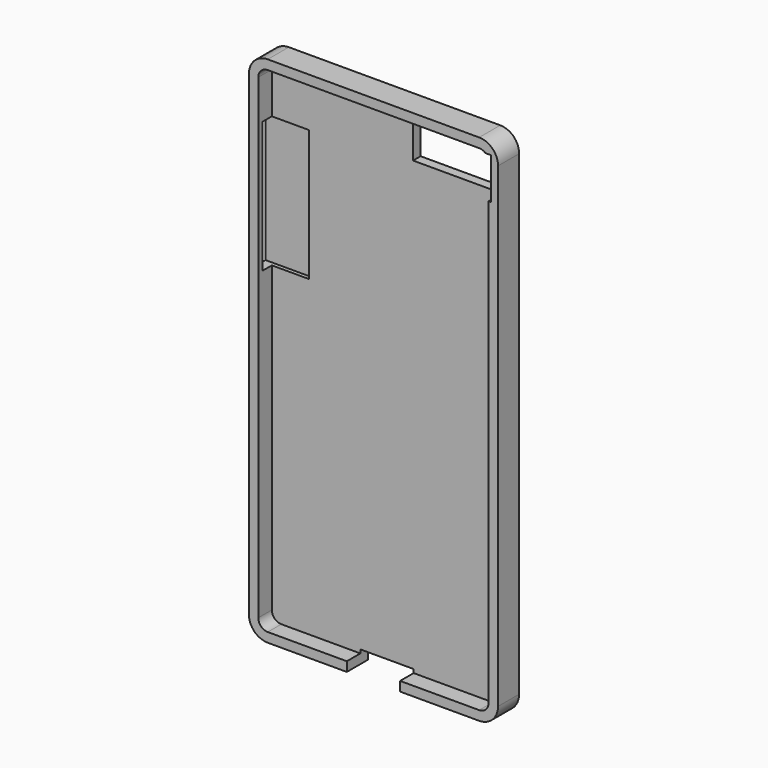
from build123d import *

# Parameters (mm, degrees)
F0_W     = 67.1
F0_H     = 138.3
F1_DEPTH = 3.55
F2_R     = 5.08
F3_T     = -2.54
F4_W     = 24.637904
F4_H     = 11.145718
F5_DEPTH = 12.5
F6_W     = 14.344266
F6_H     = 7.1
F7_DEPTH = 3.5
F8_W     = 4.111376
F8_H     = 35.32717
F9_DEPTH = 12.5


with BuildPart() as f1:
    # F0 (on Front) → F1 (new body, symmetric)
    with BuildSketch(Plane.XZ):
        Rectangle(F0_W, F0_H)
    extrude(amount=F1_DEPTH, both=True)

    # F2
    f2_edges = [f1.edges().sort_by_distance(p)[0] for p in [
        (-33.55, 0, 69.15),
        (33.55, 0, 69.15),
        (33.55, 0, -69.15),
        (-33.55, 0, -69.15),
    ]]
    fillet(f2_edges, radius=F2_R)

    # F3
    f3_openings = [f1.faces().sort_by_distance(p)[0] for p in [
        (0, -3.55, 0),
    ]]
    offset(amount=F3_T, openings=f3_openings)

    # F4 (on face) → F5 (cut, symmetric)
    with BuildSketch(Plane(origin=(0, 3.55, 0), x_dir=(-1, 0, 0), z_dir=(0, 1, 0))):
        with Locations((-19.333094, 60.415514)):
            Rectangle(F4_W, F4_H)
    extrude(amount=F5_DEPTH, both=True, mode=Mode.SUBTRACT)

    # F6 (on face) → F7 (cut, symmetric)
    with BuildSketch(Plane(origin=(0, 0, -69.15), x_dir=(1, 0, 0), z_dir=(0, 0, -1))):
        Rectangle(F6_W, F6_H)
    extrude(amount=F7_DEPTH, both=True, mode=Mode.SUBTRACT)

    # F8 (on face) → F9 (cut, symmetric)
    with BuildSketch(Plane(origin=(-33.55, 0, 0), x_dir=(0, -1, 0), z_dir=(-1, 0, 0))):
        with Locations((0, 35.298977)):
            Rectangle(F8_W, F8_H)
    extrude(amount=F9_DEPTH, both=True, mode=Mode.SUBTRACT)


solid = f1.part
